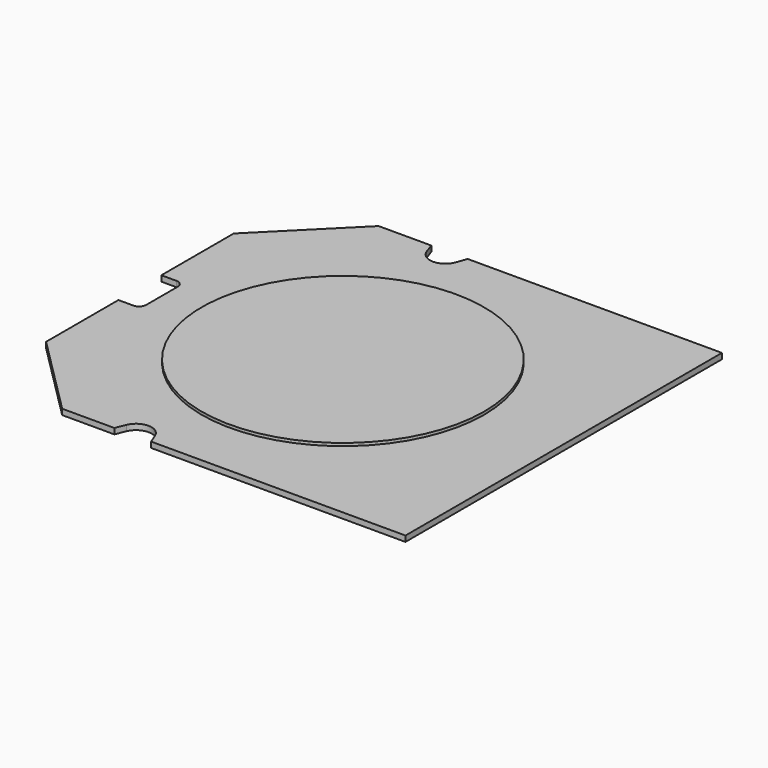
from build123d import *

# Parameters (mm, degrees)
F0_W     = 150
F0_H     = 140
F1_DEPTH = 2
F3_DEPTH = 2.001
F5_DEPTH = 2.001
F7_DEPTH = 2.001
F8_R     = 50
F9_DEPTH = 1


with BuildPart() as f1:
    # F0 (on Top) → F1 (new body)
    with BuildSketch(Plane.XY):
        Rectangle(F0_W, F0_H)
    extrude(amount=F1_DEPTH)

    # F2 (on face) → F3 (cut, through all)
    with BuildSketch(Plane.XY.offset(2)):
        Polygon((-75, 70), (-75, 41.5), (-46.5, 70), align=None)
        Polygon((-46.5, -70), (-75, -41.5), (-75, -70), align=None)
    extrude(amount=-F3_DEPTH, mode=Mode.SUBTRACT)

    # F4 (on face) → F5 (cut, through all)
    with BuildSketch(Plane.XY.offset(2)):
        with BuildLine():
            Line((-69.68, 9.5), (-75, 9.5))
            Line((-75, 9.5), (-75, -9.5))
            Line((-75, -9.5), (-69.68, -9.5))
            ThreePointArc((-69.68, -9.5), (-67.912233, -8.767767), (-67.18, -7))
            Line((-67.18, -7), (-67.18, 7))
            ThreePointArc((-67.18, 7), (-67.912233, 8.767767), (-69.68, 9.5))
        make_face()
    extrude(amount=-F5_DEPTH, mode=Mode.SUBTRACT)

    # F6 (on face) → F7 (cut, through all)
    with BuildSketch(Plane.XY.offset(2)):
        with BuildLine():
            Line((-28.031671, -70), (-15, -70))
            Line((-15, -70), (-16.416769, -66.495551))
            ThreePointArc((-16.416769, -66.495551), (-21.515836, -63.056988), (-26.614902, -66.495551))
            Line((-26.614902, -66.495551), (-28.031671, -70))
        make_face()
        with BuildLine():
            Line((-27.876137, 70), (-26.631231, 66.430881))
            ThreePointArc((-26.631231, 66.430881), (-21.438069, 62.742254), (-16.244907, 66.430881))
            Line((-16.244907, 66.430881), (-15, 70))
            Line((-15, 70), (-27.876137, 70))
        make_face()
    extrude(amount=-F7_DEPTH, mode=Mode.SUBTRACT)

    # F8 (on face) → F9 (join)
    with BuildSketch(Plane.XY.offset(2)):
        with Locations((-3.16, 0)):
            Circle(F8_R)
    extrude(amount=F9_DEPTH)


solid = f1.part
